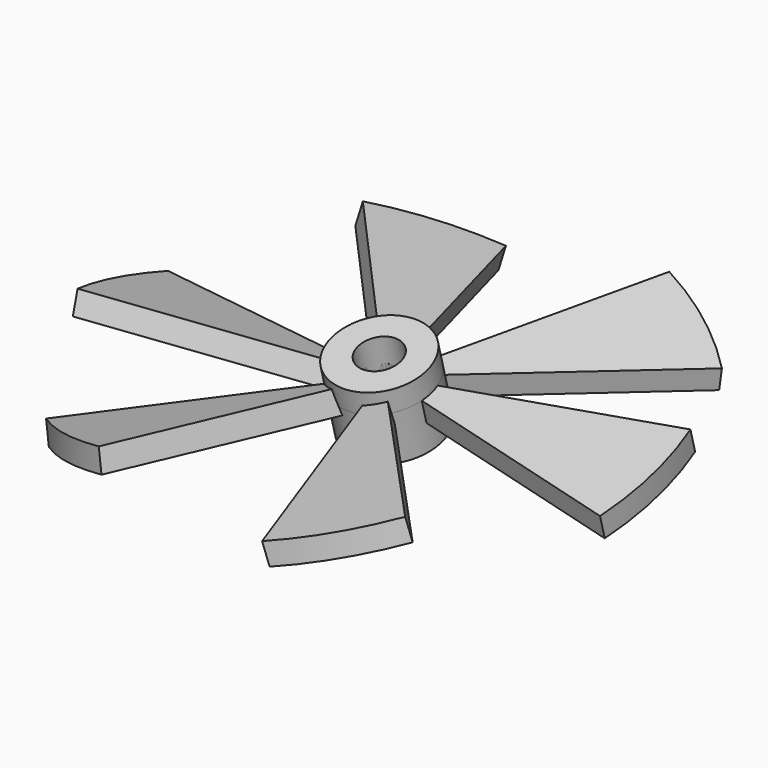
from build123d import *

# Parameters (mm, degrees)
F1_DEPTH       = 5
F3_ANGLE       = 15
F5_COUNT       = 6
F6_R           = 10.2594624762
F7_DEPTH       = 11
F7_DEPTH_BACK  = 5
F8_ANGLE       = 15
F9_R           = 4.6196588687
F10_DEPTH      = 25
F10_DEPTH_BACK = 25


with BuildPart() as f1:
    # F0 (on Top) → F1 (new body)
    with BuildSketch(Plane.XY):
        with BuildLine():
            Line((57.2005063295, 12.8105310723), (0, 0))
            Line((0, 0), (57.2005063295, -12.8105310723))
            ThreePointArc((57.2005063295, -12.8105310723), (58.6174686481, 0), (57.2005063295, 12.8105310723))
        make_face()
    extrude(amount=-F1_DEPTH)


with BuildPart() as f1_1:
    # F3: moved
    add(f1.part.rotate(Axis((29.8989806324, 0, 0), (1, 0, 0)), F3_ANGLE))


with BuildPart() as f5_1:
    # F5: instance of F1
    add(f1_1.part.rotate(Axis((0, 0, -5.2907112986), (0, 0, -1)), 1 * 360 / F5_COUNT))


with BuildPart() as f5_2:
    # F5: instance of F1
    add(f1_1.part.rotate(Axis((0, 0, -5.2907112986), (0, 0, -1)), 2 * 360 / F5_COUNT))


with BuildPart() as f5_3:
    # F5: instance of F1
    add(f1_1.part.rotate(Axis((0, 0, -5.2907112986), (0, 0, -1)), 3 * 360 / F5_COUNT))


with BuildPart() as f5_4:
    # F5: instance of F1
    add(f1_1.part.rotate(Axis((0, 0, -5.2907112986), (0, 0, -1)), 4 * 360 / F5_COUNT))


with BuildPart() as f5_5:
    # F5: instance of F1
    add(f1_1.part.rotate(Axis((0, 0, -5.2907112986), (0, 0, -1)), 5 * 360 / F5_COUNT))


with BuildPart() as f7:
    # F6 (on Top) → F7 (new body, two sides)
    with BuildSketch(Plane.XY) as f7_sk:
        Circle(F6_R)
    extrude(amount=-F7_DEPTH)
    extrude(f7_sk.sketch, amount=F7_DEPTH_BACK)


with BuildPart() as f7_1:
    # F8: moved
    add(f7.part.rotate(Axis((29.8989806324, 0, 0), (1, 0, 0)), F8_ANGLE))


with BuildPart() as f10:
    # F9 (on face) → F10 (new body, two sides)
    with BuildSketch(Plane(origin=(0, -1.2940952255, 4.8296291314), x_dir=(1, 0, 0), z_dir=(0, -0.2588190451, 0.9659258263))) as f10_sk:
        Circle(F9_R)
    extrude(amount=-F10_DEPTH)
    extrude(f10_sk.sketch, amount=F10_DEPTH_BACK)


with BuildPart() as f7_2:
    add(f7_1.part)

    # F11: cut F10
    add(f10.part, mode=Mode.SUBTRACT)


with BuildPart() as f5_4_1:
    add(f5_4.part)

    # F11: cut F10
    add(f10.part, mode=Mode.SUBTRACT)


with BuildPart() as f5_3_1:
    add(f5_3.part)

    # F11: cut F10
    add(f10.part, mode=Mode.SUBTRACT)


with BuildPart() as f5_2_1:
    add(f5_2.part)

    # F11: cut F10
    add(f10.part, mode=Mode.SUBTRACT)


with BuildPart() as f5_1_1:
    add(f5_1.part)

    # F11: cut F10
    add(f10.part, mode=Mode.SUBTRACT)


with BuildPart() as f1_2:
    add(f1_1.part)

    # F11: cut F10
    add(f10.part, mode=Mode.SUBTRACT)


with BuildPart() as f5_5_1:
    add(f5_5.part)

    # F11: cut F10
    add(f10.part, mode=Mode.SUBTRACT)


solid = Compound([f7_2.part, f5_4_1.part, f5_3_1.part, f5_2_1.part, f5_1_1.part, f1_2.part, f5_5_1.part])
